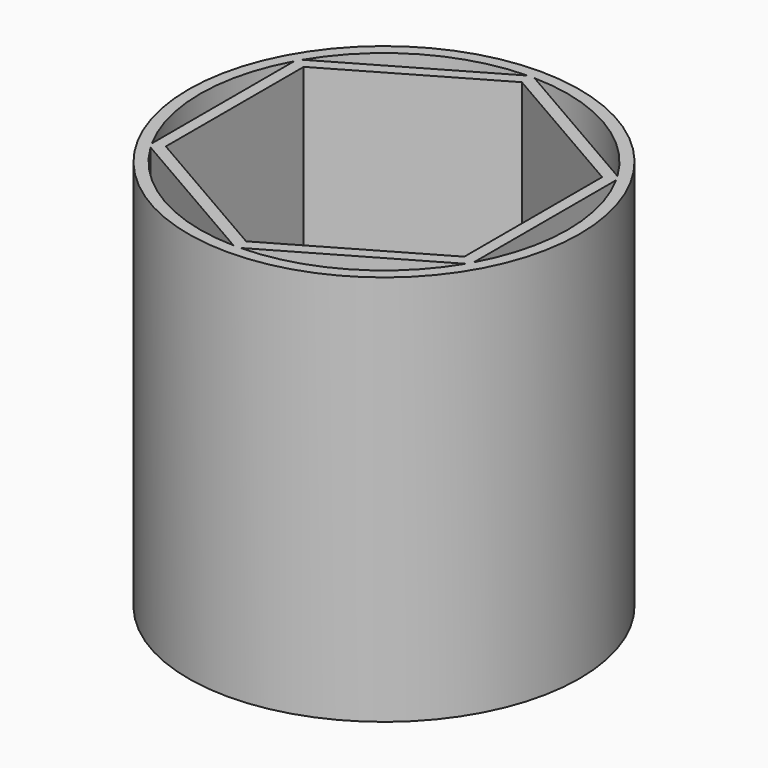
from build123d import *

# Parameters (mm, degrees)
F0_R     = 20
F1_DEPTH = 40
F2_DEPTH = 0.6


with BuildPart() as f1:
    # F0 (on Top) → F1 (new body)
    with BuildSketch(Plane.XY):
        Circle(F0_R)
        with BuildLine():
            ThreePointArc((-0.3521222892, 18.7967021015), (0, 18.8), (0.3521222892, 18.7967021015))
            ThreePointArc((0.3521222892, 18.7967021015), (9.4, 16.2812775911), (16.1023603827, 9.7032978985))
            ThreePointArc((16.1023603827, 9.7032978985), (16.2812775911, 9.4), (16.4544826719, 9.093404203))
            ThreePointArc((16.4544826719, 9.093404203), (18.2041791113, 4.6955151884), (18.8, 0))
            ThreePointArc((18.8, 0), (18.2041791113, -4.6955151884), (16.4544826719, -9.093404203))
            ThreePointArc((16.4544826719, -9.093404203), (16.2812775911, -9.4), (16.1023603827, -9.7032978985))
            ThreePointArc((16.1023603827, -9.7032978985), (9.4, -16.2812775911), (0.3521222892, -18.7967021015))
            ThreePointArc((0.3521222892, -18.7967021015), (0, -18.8), (-0.3521222892, -18.7967021015))
            ThreePointArc((-0.3521222892, -18.7967021015), (-9.4, -16.2812775911), (-16.1023603827, -9.7032978985))
            ThreePointArc((-16.1023603827, -9.7032978985), (-16.2812775911, -9.4), (-16.4544826719, -9.093404203))
            ThreePointArc((-16.4544826719, -9.093404203), (-18.8, 0), (-16.4544826719, 9.093404203))
            ThreePointArc((-16.4544826719, 9.093404203), (-16.2812775911, 9.4), (-16.1023603827, 9.7032978985))
            ThreePointArc((-16.1023603827, 9.7032978985), (-9.4, 16.2812775911), (-0.3521222892, 18.7967021015))
        make_face(mode=Mode.SUBTRACT)
        with BuildLine():
            Line((16.1023603827, 9.7032978985), (0.3521222892, 18.7967021015))
            ThreePointArc((0.3521222892, 18.7967021015), (0, 18.8), (-0.3521222892, 18.7967021015))
            Line((-0.3521222892, 18.7967021015), (-16.1023603827, 9.7032978985))
            ThreePointArc((-16.1023603827, 9.7032978985), (-16.2812775911, 9.4), (-16.4544826719, 9.093404203))
            Line((-16.4544826719, 9.093404203), (-16.4544826719, -9.093404203))
            ThreePointArc((-16.4544826719, -9.093404203), (-16.2812775911, -9.4), (-16.1023603827, -9.7032978985))
            Line((-16.1023603827, -9.7032978985), (-0.3521222892, -18.7967021015))
            ThreePointArc((-0.3521222892, -18.7967021015), (0, -18.8), (0.3521222892, -18.7967021015))
            Line((0.3521222892, -18.7967021015), (16.1023603827, -9.7032978985))
            ThreePointArc((16.1023603827, -9.7032978985), (16.2812775911, -9.4), (16.4544826719, -9.093404203))
            Line((16.4544826719, -9.093404203), (16.4544826719, 9.093404203))
            ThreePointArc((16.4544826719, 9.093404203), (16.2812775911, 9.4), (16.1023603827, 9.7032978985))
        make_face()
        Polygon((0, -17.6143593539), (-15.2544826719, -8.807179677), (-15.2544826719, 8.807179677), (0, 17.6143593539), (15.2544826719, 8.807179677), (15.2544826719, -8.807179677), align=None, mode=Mode.SUBTRACT)
    extrude(amount=F1_DEPTH)

    # F0 (on Top) → F2 (join)
    with BuildSketch(Plane.XY):
        Circle(F0_R)
        with BuildLine():
            ThreePointArc((-0.3521222892, 18.7967021015), (0, 18.8), (0.3521222892, 18.7967021015))
            ThreePointArc((0.3521222892, 18.7967021015), (9.4, 16.2812775911), (16.1023603827, 9.7032978985))
            ThreePointArc((16.1023603827, 9.7032978985), (16.2812775911, 9.4), (16.4544826719, 9.093404203))
            ThreePointArc((16.4544826719, 9.093404203), (18.2041791113, 4.6955151884), (18.8, 0))
            ThreePointArc((18.8, 0), (18.2041791113, -4.6955151884), (16.4544826719, -9.093404203))
            ThreePointArc((16.4544826719, -9.093404203), (16.2812775911, -9.4), (16.1023603827, -9.7032978985))
            ThreePointArc((16.1023603827, -9.7032978985), (9.4, -16.2812775911), (0.3521222892, -18.7967021015))
            ThreePointArc((0.3521222892, -18.7967021015), (0, -18.8), (-0.3521222892, -18.7967021015))
            ThreePointArc((-0.3521222892, -18.7967021015), (-9.4, -16.2812775911), (-16.1023603827, -9.7032978985))
            ThreePointArc((-16.1023603827, -9.7032978985), (-16.2812775911, -9.4), (-16.4544826719, -9.093404203))
            ThreePointArc((-16.4544826719, -9.093404203), (-18.8, 0), (-16.4544826719, 9.093404203))
            ThreePointArc((-16.4544826719, 9.093404203), (-16.2812775911, 9.4), (-16.1023603827, 9.7032978985))
            ThreePointArc((-16.1023603827, 9.7032978985), (-9.4, 16.2812775911), (-0.3521222892, 18.7967021015))
        make_face(mode=Mode.SUBTRACT)
        with BuildLine():
            ThreePointArc((16.1023603827, 9.7032978985), (9.4, 16.2812775911), (0.3521222892, 18.7967021015))
            Line((0.3521222892, 18.7967021015), (16.1023603827, 9.7032978985))
        make_face()
        with BuildLine():
            Line((16.1023603827, 9.7032978985), (0.3521222892, 18.7967021015))
            ThreePointArc((0.3521222892, 18.7967021015), (0, 18.8), (-0.3521222892, 18.7967021015))
            Line((-0.3521222892, 18.7967021015), (-16.1023603827, 9.7032978985))
            ThreePointArc((-16.1023603827, 9.7032978985), (-16.2812775911, 9.4), (-16.4544826719, 9.093404203))
            Line((-16.4544826719, 9.093404203), (-16.4544826719, -9.093404203))
            ThreePointArc((-16.4544826719, -9.093404203), (-16.2812775911, -9.4), (-16.1023603827, -9.7032978985))
            Line((-16.1023603827, -9.7032978985), (-0.3521222892, -18.7967021015))
            ThreePointArc((-0.3521222892, -18.7967021015), (0, -18.8), (0.3521222892, -18.7967021015))
            Line((0.3521222892, -18.7967021015), (16.1023603827, -9.7032978985))
            ThreePointArc((16.1023603827, -9.7032978985), (16.2812775911, -9.4), (16.4544826719, -9.093404203))
            Line((16.4544826719, -9.093404203), (16.4544826719, 9.093404203))
            ThreePointArc((16.4544826719, 9.093404203), (16.2812775911, 9.4), (16.1023603827, 9.7032978985))
        make_face()
        Polygon((0, -17.6143593539), (-15.2544826719, -8.807179677), (-15.2544826719, 8.807179677), (0, 17.6143593539), (15.2544826719, 8.807179677), (15.2544826719, -8.807179677), align=None, mode=Mode.SUBTRACT)
        Polygon((-15.2544826719, 8.807179677), (-15.2544826719, -8.807179677), (0, -17.6143593539), (15.2544826719, -8.807179677), (15.2544826719, 8.807179677), (0, 17.6143593539), align=None)
        with BuildLine():
            Line((-16.1023603827, 9.7032978985), (-0.3521222892, 18.7967021015))
            ThreePointArc((-0.3521222892, 18.7967021015), (-9.4, 16.2812775911), (-16.1023603827, 9.7032978985))
        make_face()
        with BuildLine():
            Line((-16.4544826719, -9.093404203), (-16.4544826719, 9.093404203))
            ThreePointArc((-16.4544826719, 9.093404203), (-18.8, 0), (-16.4544826719, -9.093404203))
        make_face()
        with BuildLine():
            Line((-0.3521222892, -18.7967021015), (-16.1023603827, -9.7032978985))
            ThreePointArc((-16.1023603827, -9.7032978985), (-9.4, -16.2812775911), (-0.3521222892, -18.7967021015))
        make_face()
        with BuildLine():
            ThreePointArc((0.3521222892, -18.7967021015), (9.4, -16.2812775911), (16.1023603827, -9.7032978985))
            Line((16.1023603827, -9.7032978985), (0.3521222892, -18.7967021015))
        make_face()
        with BuildLine():
            ThreePointArc((18.8, 0), (18.2041791113, 4.6955151884), (16.4544826719, 9.093404203))
            Line((16.4544826719, 9.093404203), (16.4544826719, -9.093404203))
            ThreePointArc((16.4544826719, -9.093404203), (18.2041791113, -4.6955151884), (18.8, 0))
        make_face()
    extrude(amount=F2_DEPTH)


solid = f1.part
